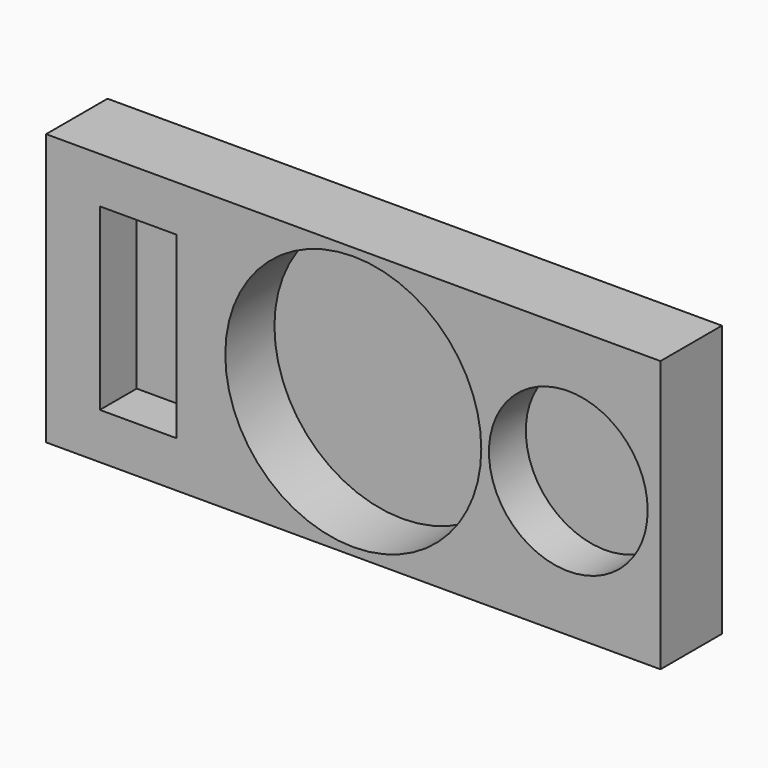
from build123d import *

# Parameters (mm, degrees)
F0_W     = 152.4
F0_H     = 67.31
F1_DEPTH = 19.05
F2_R     = 31.75
F3_DEPTH = 15.24
F4_R     = 19.685
F5_DEPTH = 11.43
F6_W     = 19.05
F6_H     = 44.45
F7_DEPTH = 11.43


with BuildPart() as f1:
    # F0 (on Front) → F1 (new body)
    with BuildSketch(Plane.XZ):
        Rectangle(F0_W, F0_H)
    extrude(amount=F1_DEPTH)

    # F2 (on face) → F3 (cut)
    with BuildSketch(Plane.XZ.offset(19.05)):
        Circle(F2_R)
    extrude(amount=-F3_DEPTH, mode=Mode.SUBTRACT)

    # F4 (on face) → F5 (cut)
    with BuildSketch(Plane.XZ.offset(19.05)):
        with Locations((53.34, 0)):
            Circle(F4_R)
    extrude(amount=-F5_DEPTH, mode=Mode.SUBTRACT)

    # F6 (on face) → F7 (cut)
    with BuildSketch(Plane.XZ.offset(19.05)):
        with Locations((-53.34, 0)):
            Rectangle(F6_W, F6_H)
    extrude(amount=-F7_DEPTH, mode=Mode.SUBTRACT)


solid = f1.part
